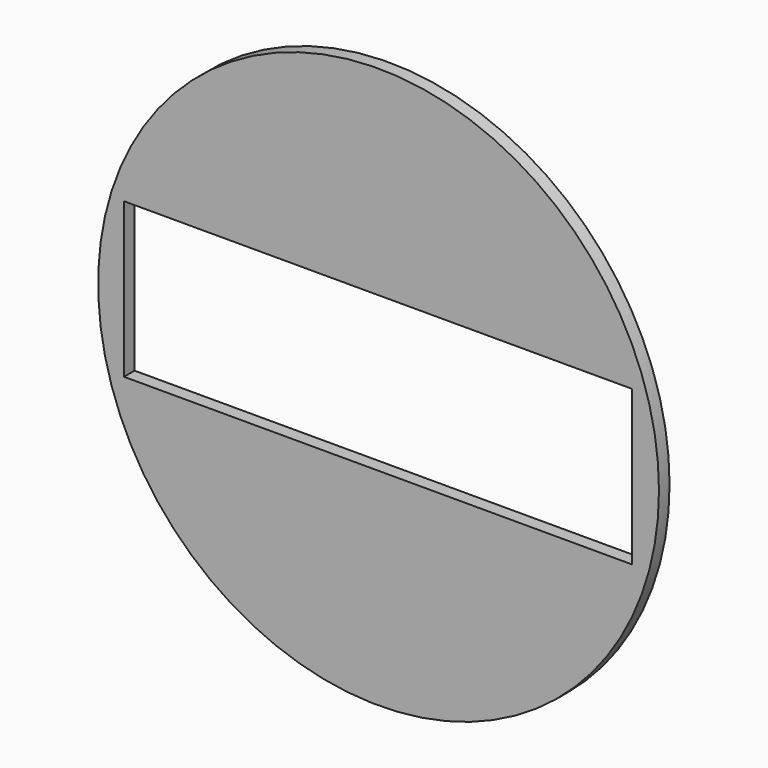
from build123d import *

# Parameters (mm, degrees)
F0_R     = 63.5
F1_DEPTH = 3
F2_W     = 115
F2_H     = 35
F3_DEPTH = 3


with BuildPart() as f1:
    # F0 (on Front) → F1 (new body)
    with BuildSketch(Plane.XZ):
        Circle(F0_R)
    extrude(amount=F1_DEPTH)

    # F2 (on Front) → F3 (cut)
    with BuildSketch(Plane.XZ):
        with Locations((-0.148186, 0.797595)):
            Rectangle(F2_W, F2_H)
    extrude(amount=F3_DEPTH, mode=Mode.SUBTRACT)


solid = f1.part
